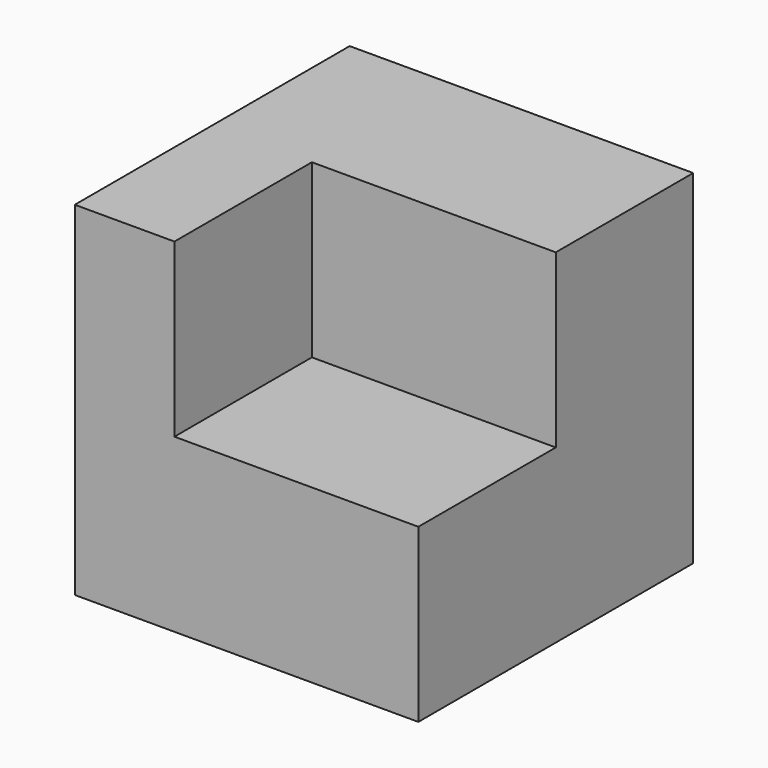
from build123d import *

# Parameters (mm, degrees)
F0_W     = 50.8
F0_H     = 50.8
F1_DEPTH = 50.8
F2_W     = 36.0644307539
F2_H     = 25.4
F3_DEPTH = 25.4


with BuildPart() as f1:
    # F0 (on Right) → F1 (new body)
    with BuildSketch(Plane.YZ):
        with Locations((-1.3928227127, 5.918835211)):
            Rectangle(F0_W, F0_H)
    extrude(amount=F1_DEPTH)

    # F2 (on face) → F3 (cut)
    with BuildSketch(Plane.XY.offset(31.318835211)):
        with Locations((32.7677846231, -14.0928227127)):
            Rectangle(F2_W, F2_H)
    extrude(amount=-F3_DEPTH, mode=Mode.SUBTRACT)


solid = f1.part
